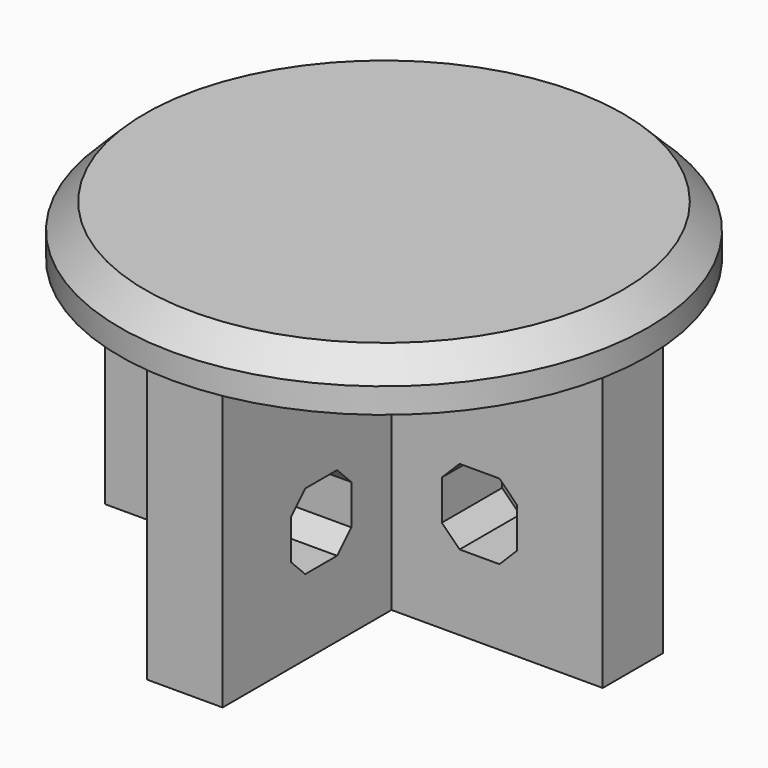
from build123d import *

# Parameters (mm, degrees)
PAD042_DEPTH    = 11.2
SKETCH075_R     = 10.5
PAD043_DEPTH    = 2
CHAMFER004_SIZE = 1
POCKET032_DEPTH = 12.001018
POCKET033_DEPTH = 12.001


with BuildPart() as part:
    # Sketch074 (on Face4 of Binder018) → Pad042 (new body)
    with BuildSketch(Plane.XY.offset(89.8)):
        Polygon((-85.13961, 93.539629), (-82.13961, 93.539629), (-82.13961, 85.139629), (-73.73961, 85.139629), (-73.73961, 82.139629), (-82.13961, 82.139592), (-82.13961, 73.739592), (-85.13961, 73.739592), (-85.13961, 82.139592), (-93.53961, 82.139592), (-93.53961, 85.139629), (-85.13961, 85.139629), align=None)
    extrude(amount=PAD042_DEPTH)

    # Sketch075 (on Face14 of Pad042) → Pad043 (join)
    with BuildSketch(Plane.XY.offset(101)):
        with Locations((-83.63961, 83.63961)):
            Circle(SKETCH075_R)
    extrude(amount=PAD043_DEPTH)

    # Chamfer004
    chamfer004_edges = [part.edges().sort_by_distance(p)[0] for p in [
        (-94.13961, 83.63961, 103),
    ]]
    chamfer(chamfer004_edges, length=CHAMFER004_SIZE)

    # Sketch076 (on Face6 of Chamfer004) → Pocket032 (cut, through all)
    with BuildSketch(Plane(origin=(0, 85.139629, 0), x_dir=(-1, 0, 0), z_dir=(0, 1, 0))):
        Polygon((77.846717, 95.8), (79.432503, 95.8), (80.13961, 95.092893), (80.13961, 93.507107), (79.432503, 92.8), (77.846717, 92.8), (77.13961, 93.507107), (77.13961, 95.092893), align=None)
        Polygon((87.13961, 95.092893), (87.846717, 95.8), (89.432504, 95.8), (90.13961, 95.092893), (90.13961, 93.507107), (89.432504, 92.8), (87.846717, 92.8), (87.13961, 93.507107), align=None)
    extrude(amount=-POCKET032_DEPTH, mode=Mode.SUBTRACT)

    # Sketch077 (on Face15 of Pocket032) → Pocket033 (cut, through all)
    with BuildSketch(Plane(origin=(-82.139609, -1e-06, 0), x_dir=(0, 1, 0), z_dir=(1, 0, 0))):
        Polygon((87.846736, 95.8), (89.432523, 95.8), (90.139629, 95.092893), (90.139629, 93.507107), (89.432523, 92.8), (87.846736, 92.8), (87.139629, 93.507107), (87.139629, 95.092893), align=None)
        Polygon((77.846699, 95.8), (79.432486, 95.8), (80.139593, 95.092893), (80.139593, 93.507107), (79.432486, 92.8), (77.846699, 92.8), (77.139593, 93.507107), (77.139593, 95.092893), align=None)
    extrude(amount=-POCKET033_DEPTH, mode=Mode.SUBTRACT)


solid = part.part
